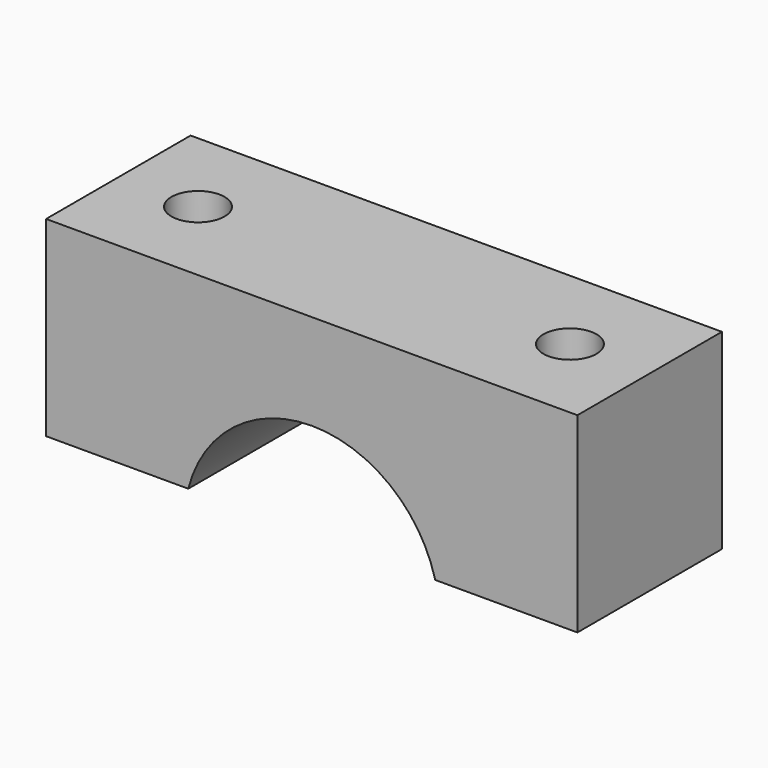
from build123d import *

# Parameters (mm, degrees)
F1_DEPTH = 17
F2_R     = 2.5
F3_DEPTH = 44.289937


with BuildPart() as f1:
    # F0 (on Front) → F1 (new body)
    with BuildSketch(Plane.XZ):
        with BuildLine():
            ThreePointArc((-11.61895, 3), (0, 12), (11.61895, 3))
            Line((11.61895, 3), (25, 3))
            Line((25, 3), (25, 21))
            Line((25, 21), (-25, 21))
            Line((-25, 21), (-25, 3))
            Line((-25, 3), (-11.61895, 3))
        make_face()
    extrude(amount=F1_DEPTH)

    # F2 (on face) → F3 (cut)
    with BuildSketch(Plane.XY.offset(21)):
        with Locations((-17.5, -8.5)):
            Circle(F2_R)
        with Locations((17.5, -8.5)):
            Circle(F2_R)
    extrude(amount=-F3_DEPTH, mode=Mode.SUBTRACT)


solid = f1.part
